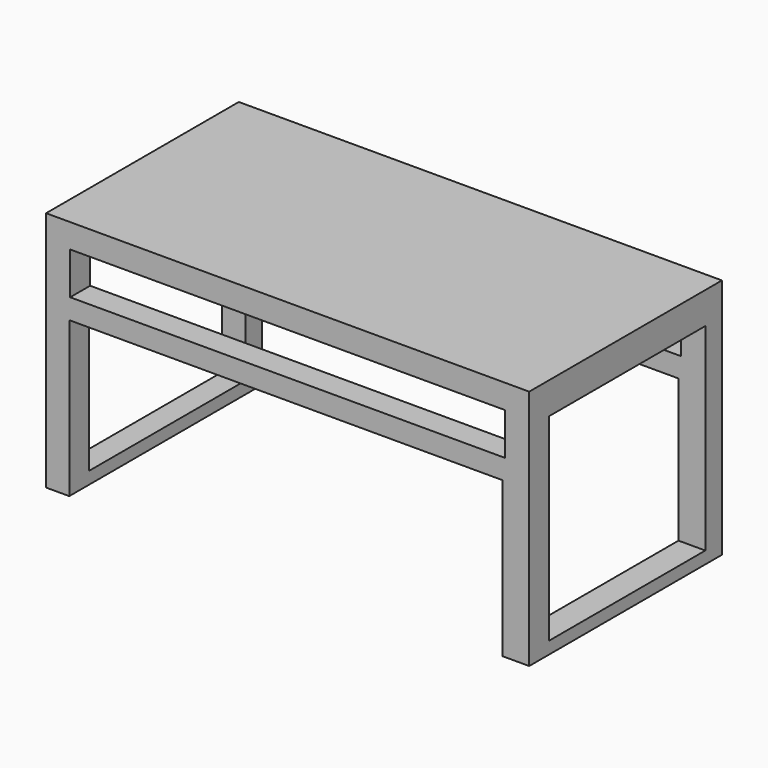
from build123d import *

# Parameters (mm, degrees)
F0_W     = 100.2733111382
F0_H     = 50.1366546378
F1_DEPTH = 50
F2_W     = 90.2733111382
F2_H     = 8.7347067715
F3_DEPTH = 50.001
F5_W     = 40.5144635588
F5_H     = 41.020902805
F6_DEPTH = 100.2743111382
F7_W     = 89.8914821446
F7_H     = 32.1583626792
F8_DEPTH = 50.001


with BuildPart() as f1:
    # F0 (on Front) → F1 (new body)
    with BuildSketch(Plane.XZ):
        with Locations((-15.6993567944, 31.3960765488)):
            Rectangle(F0_W, F0_H)
    extrude(amount=F1_DEPTH)

    # F2 (on face) → F3 (cut, through all)
    with BuildSketch(Plane.XZ.offset(50)):
        with Locations((-15.6993567944, 47.097050482)):
            Rectangle(F2_W, F2_H)
    extrude(amount=-F3_DEPTH, mode=Mode.SUBTRACT)

    # F5 (on face) → F6 (cut, through all)
    with BuildSketch(Plane(origin=(-65.8360123634, 0, 0), x_dir=(0, -1, 0), z_dir=(-1, 0, 0))):
        with Locations((24.5618959889, 29.3703549542)):
            Rectangle(F5_W, F5_H)
    extrude(amount=-F6_DEPTH, mode=Mode.SUBTRACT)

    # F7 (on face) → F8 (cut, through all)
    with BuildSketch(Plane.XZ.offset(50)):
        with Locations((-16.0791818053, 22.4069305696)):
            Rectangle(F7_W, F7_H)
    extrude(amount=-F8_DEPTH, mode=Mode.SUBTRACT)


solid = f1.part
